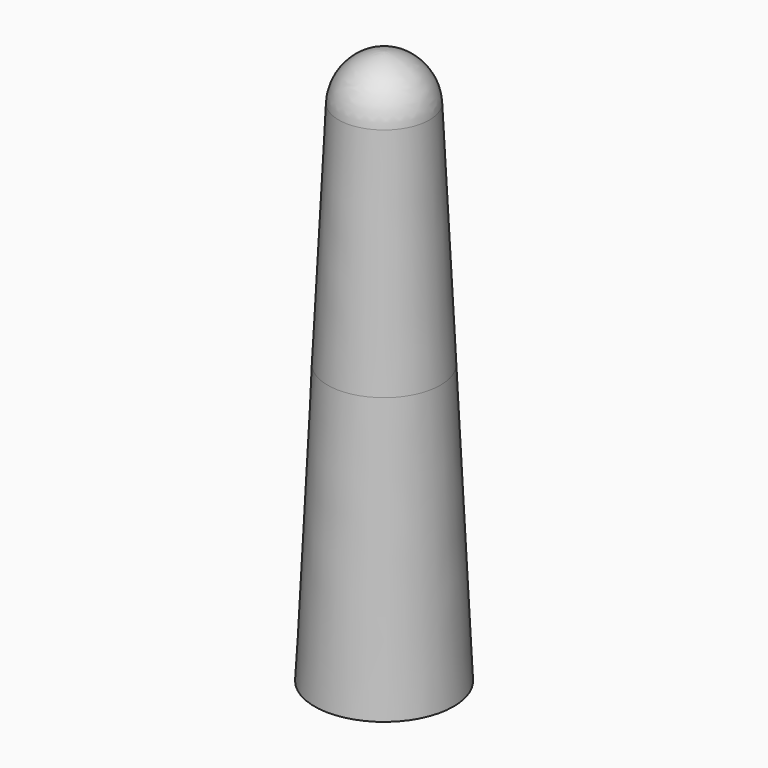
from build123d import *


with BuildPart() as f1:
    # F0 (on Front) → F1 (revolve)
    with BuildSketch(Plane.XZ):
        with BuildLine():
            ThreePointArc((1.808856, 20.084718), (1.27989, 21.279889), (0.084719, 21.808856))
            Line((0.084719, 21.808856), (0.084719, 11.358856))
            Line((0.084719, 11.358856), (0.084719, 0.784156))
            Line((0.084719, 0.784156), (2.724719, 0.784156))
            Line((2.724719, 0.784156), (2.22754, 11.358856))
            Line((2.22754, 11.358856), (1.808856, 20.084718))
        make_face()
    revolve(axis=Axis((0.084719, 0, 6.071506), (0, 0, -1)))


solid = f1.part
